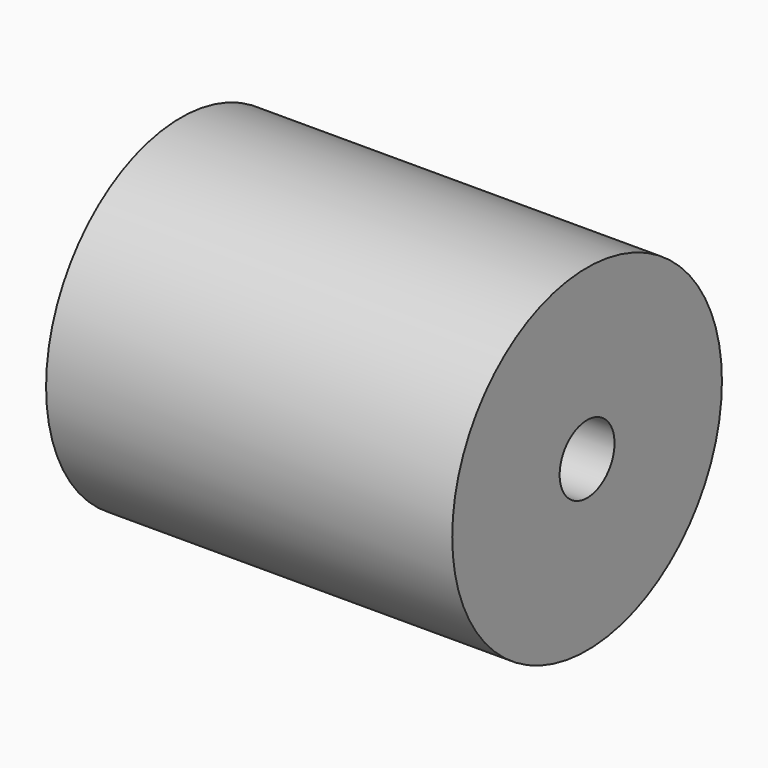
from build123d import *

# Parameters (mm, degrees)
F0_R          = 105.41
F1_DEPTH      = 127
F1_DEPTH_BACK = 127
F2_R          = 21.463
F3_DEPTH      = 254


with BuildPart() as f1:
    # F0 (on Right) → F1 (new body, two sides)
    with BuildSketch(Plane.YZ) as f1_sk:
        Circle(F0_R)
    extrude(amount=F1_DEPTH)
    extrude(f1_sk.sketch, amount=-F1_DEPTH_BACK)

    # F2 (on face) → F3 (cut)
    with BuildSketch(Plane(origin=(-127, 0, 0), x_dir=(0, -1, 0), z_dir=(-1, 0, 0))):
        Circle(F2_R)
    extrude(amount=-F3_DEPTH, mode=Mode.SUBTRACT)


solid = f1.part
